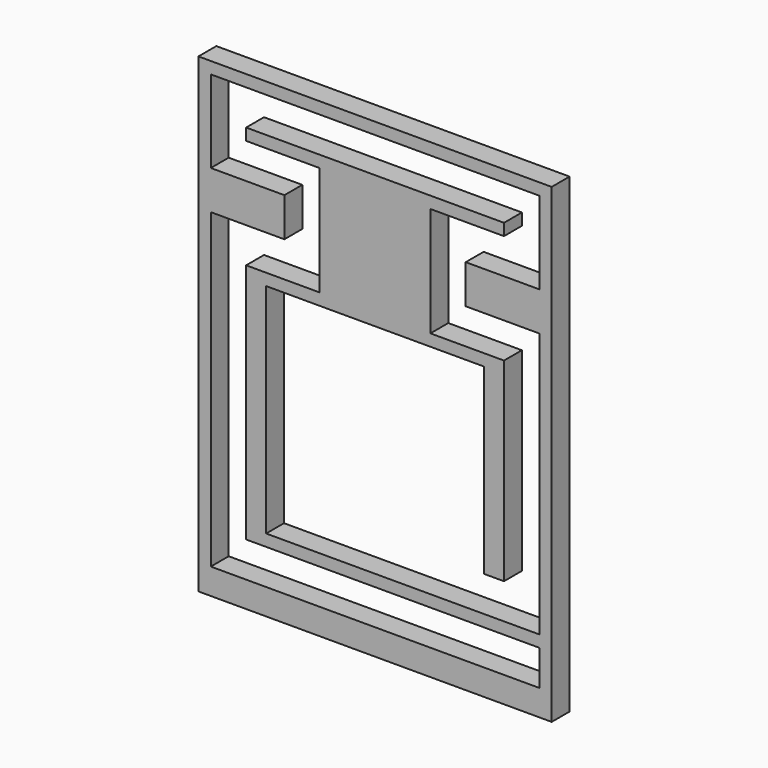
from build123d import *

# Parameters (mm, degrees)
F0_W     = 300
F0_H     = 400
F1_DEPTH = 19
F3_DEPTH = 19


with BuildPart() as f1:
    # F0 (on Front) → F1 (new body)
    with BuildSketch(Plane.XZ):
        with Locations((-27.419556, -1.714605)):
            Rectangle(F0_W, F0_H)
    extrude(amount=F1_DEPTH)

    # F2 (on face) → F3 (cut)
    with BuildSketch(Plane.XZ.offset(19)):
        Polygon((-166.919556, -179.714605), (112.080444, -179.714605), (112.080444, -149.714605), (-136.919556, -149.714605), (-136.919556, 55.285395), (-74.419556, 55.285395), (-74.419556, 148.285395), (-136.919556, 148.285395), (-136.919556, 158.285395), (82.080444, 158.285395), (82.080444, 148.285395), (19.580444, 148.285395), (19.580444, 55.285395), (82.080444, 55.285395), (82.080444, -109.714605), (65.080444, -109.714605), (65.080444, 45.285395), (-119.919556, 45.285395), (-119.919556, -139.714605), (112.080444, -139.714605), (112.080444, 85.285395), (49.580444, 85.285395), (49.580444, 118.285395), (112.080444, 118.285395), (112.080444, 188.285395), (-166.919556, 188.285395), (-166.919556, 118.285395), (-104.419556, 118.285395), (-104.419556, 85.285395), (-166.919556, 85.285395), align=None)
    extrude(amount=-F3_DEPTH, mode=Mode.SUBTRACT)


solid = f1.part
